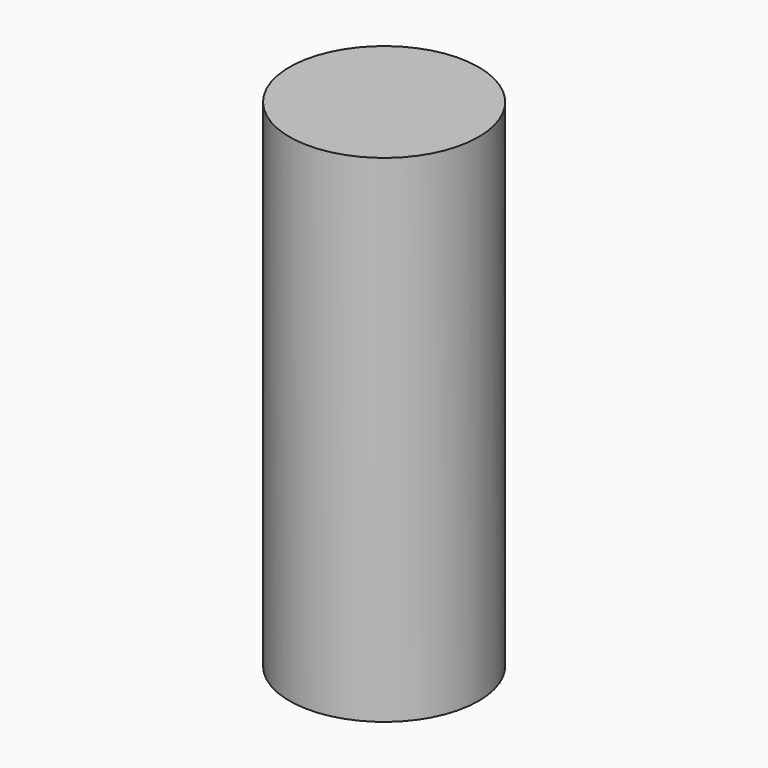
from build123d import *

# Parameters (mm, degrees)
CYLINDER_R     = 2.8575
CYLINDER_DEPTH = 15


with BuildPart() as part:
    # Cylinder → Cylinder (new body)
    with BuildSketch(Plane.XY.offset(-2.5)):
        Circle(CYLINDER_R)
    extrude(amount=CYLINDER_DEPTH)


solid = part.part
